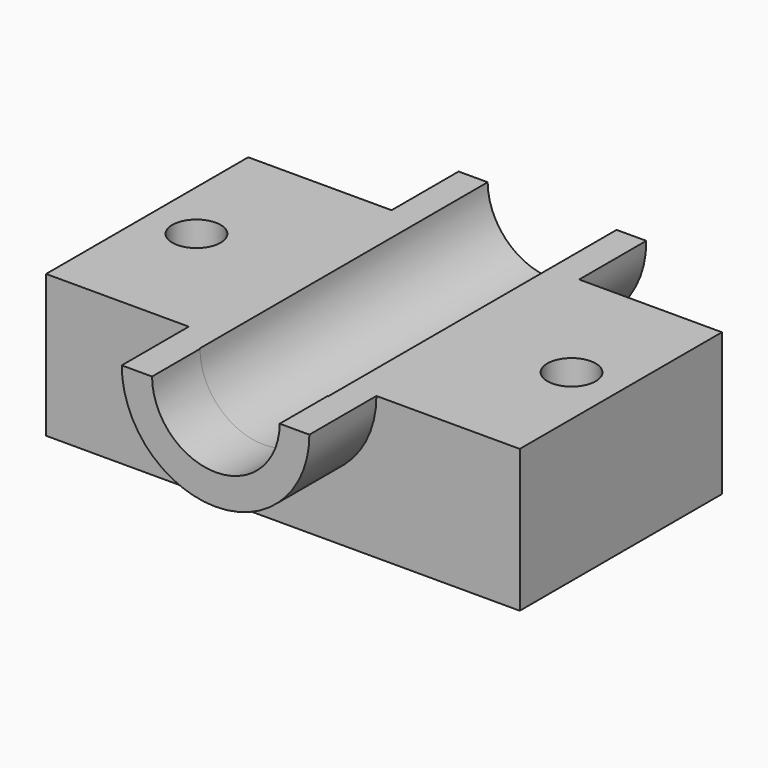
from build123d import *

# Parameters (mm, degrees)
F0_W     = 143.5509369683
F0_H     = 76.5728146038
F0_R     = 7.3255293143
F1_DEPTH = 43.18
F3_DEPTH = 25.4
F5_DEPTH = 25.4
F6_DEPTH = 83.82


with BuildPart() as f1:
    # F0 (on Top) → F1 (new body)
    with BuildSketch(Plane.XY):
        Rectangle(F0_W, F0_H)
        with Locations((-56.8299391699, 0)):
            Circle(F0_R, mode=Mode.SUBTRACT)
        with Locations((56.8299391699, 0)):
            Circle(F0_R, mode=Mode.SUBTRACT)
    extrude(amount=F1_DEPTH)

    # F2 (on face) → F3 (join)
    with BuildSketch(Plane.XZ.offset(38.2864073019)):
        with BuildLine():
            Line((-19.3430762738, 43.18), (-28.5261534154, 43.18))
            ThreePointArc((-28.5261534154, 43.18), (-0.0976910815, 14.70231059), (28.3307712525, 43.18))
            Line((28.3307712525, 43.18), (19.3430762738, 43.18))
            ThreePointArc((19.3430762738, 43.18), (0, 23.9099304509), (-19.3430762738, 43.18))
        make_face()
    extrude(amount=F3_DEPTH)

    # F4 (on face) → F5 (join)
    with BuildSketch(Plane(origin=(0, 38.2864073019, 0), x_dir=(-1, 0, 0), z_dir=(0, 1, 0))):
        with BuildLine():
            Line((-19.538462162, 43.18), (-28.5261534154, 43.18))
            ThreePointArc((-28.5261534154, 43.18), (-0.0976910815, 14.5425554008), (28.3307712525, 43.18))
            Line((28.3307712525, 43.18), (19.5384602994, 43.18))
            ThreePointArc((19.5384602994, 43.18), (-9.313e-07, 23.8160529924), (-19.538462162, 43.18))
        make_face()
    extrude(amount=F5_DEPTH)

    # F6 (cut): a face of the model
    f6_faces = [f1.faces().sort_by_distance(p)[0] for p in [
        (9.313e-07, 38.2864073019, 34.9677769674),
    ]]
    extrude(f6_faces, amount=-F6_DEPTH, mode=Mode.SUBTRACT)


solid = f1.part
